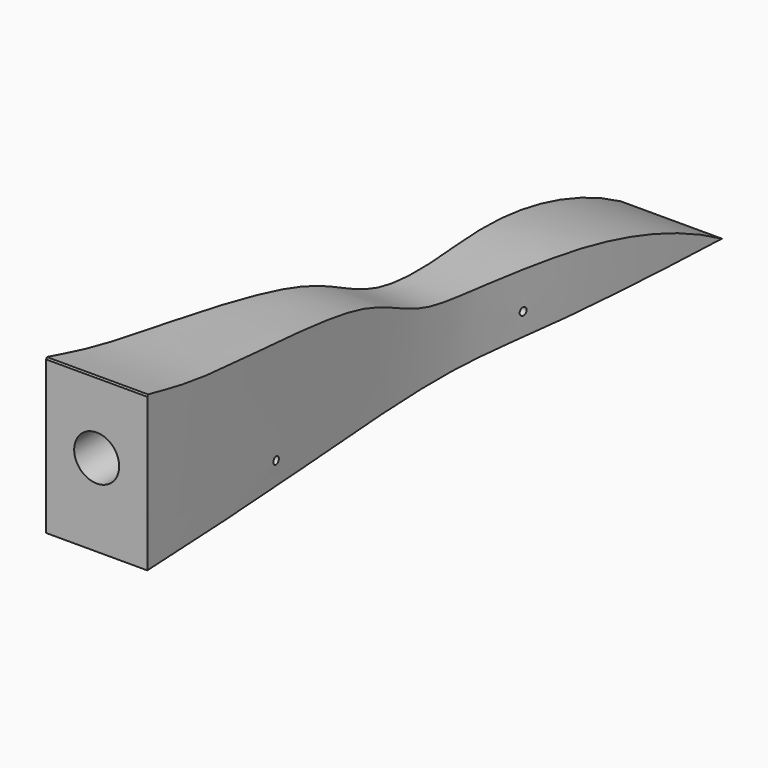
from build123d import *

# Parameters (mm, degrees)
F1_DEPTH = 21.43125
F2_R     = 9.525
F3_DEPTH = 50.8
F7_START = -21.43225
F6_R     = 1.5875
F7_DEPTH = 42.8645
F8_DEPTH = 65.4386075672


with BuildPart() as f1:
    # F0 (on Right) → F1 (new body, symmetric)
    with BuildSketch(Plane.YZ):
        Polygon((-152.4, 69.85), (-152.4, 0), (152.4, 0), (152.4, 19.05), align=None)
    extrude(amount=F1_DEPTH, both=True)

    # F2 (on face) → F3 (cut)
    with BuildSketch(Plane.XZ.offset(152.4)):
        with Locations((0, 34.925)):
            Circle(F2_R)
    extrude(amount=-F3_DEPTH, mode=Mode.SUBTRACT)

    # F6 (on Right) → F7 (intersect)
    with BuildSketch(Plane.YZ.offset(F7_START)):
        with BuildLine():
            Line((174.2178350687, -16.3004118949), (151.7277061939, 0))
            add(Edge.make_bspline(
                [(151.7277061939, 0), (129.7345931029, 12.6684667422), (79.8440287512, 28.2813260519), (7.5155798195, 23.2190884958), (-24.3392684921, 49.5404318303), (-121.0460820318, 56.7773848647), (-144.1742181778, 63.693292439), (-152.0236283541, 65.4376074672)],
                knots=[0, 0, 0, 0, 0.2279166648, 0.439445095, 0.604781481, 0.8552043223, 1, 1, 1, 1], degree=3))
            Line((-152.0236283541, 65.4376074672), (-173.6085563898, 22.9317266494))
            Line((-173.6085563898, 22.9317266494), (-173.6085563898, -33.5242785513))
            Line((-173.6085563898, -33.5242785513), (174.2178350687, -16.3004118949))
        make_face()
        with Locations((-78.652203083, 9.525)):
            Circle(F6_R, mode=Mode.SUBTRACT)
        with Locations((55.7069741189, 9.525)):
            Circle(F6_R, mode=Mode.SUBTRACT)
    extrude(amount=F7_DEPTH, mode=Mode.INTERSECT)

    # F5 (on face) → F8 (cut, through all)
    with BuildSketch(Plane(origin=(0, 0, 0), x_dir=(1, 0, 0), z_dir=(0, 0, -1))):
        with BuildLine():
            add(Edge.make_bspline(
                [(-21.43125, 152.4), (-20.1060480027, 123.7571255084), (-16.5522601781, 66.7265424738), (-8.0871548438, -21.2285272096), (-17.0808352286, -70.262324058), (-20.2091141482, -122.7621387002), (-21.43125, -152.4)],
                knots=[0, 0, 0, 0, 0.2698088007, 0.5362275171, 0.7392686135, 1, 1, 1, 1], degree=3))
            Line((-21.43125, 152.4), (-21.43125, -152.4))
        make_face()
        with BuildLine():
            Line((21.43125, -152.4), (21.43125, 152.4))
            add(Edge.make_bspline(
                [(21.43125, 152.4), (20.1060480027, 123.7571255084), (16.5522601781, 66.7265424738), (8.0871548438, -21.2285272096), (17.0808352286, -70.262324058), (20.2091141482, -122.7621387002), (21.43125, -152.4)],
                knots=[0, 0, 0, 0, 0.2698088007, 0.5362275171, 0.7392686135, 1, 1, 1, 1], degree=3))
        make_face()
    extrude(amount=-F8_DEPTH, mode=Mode.SUBTRACT)


solid = f1.part
